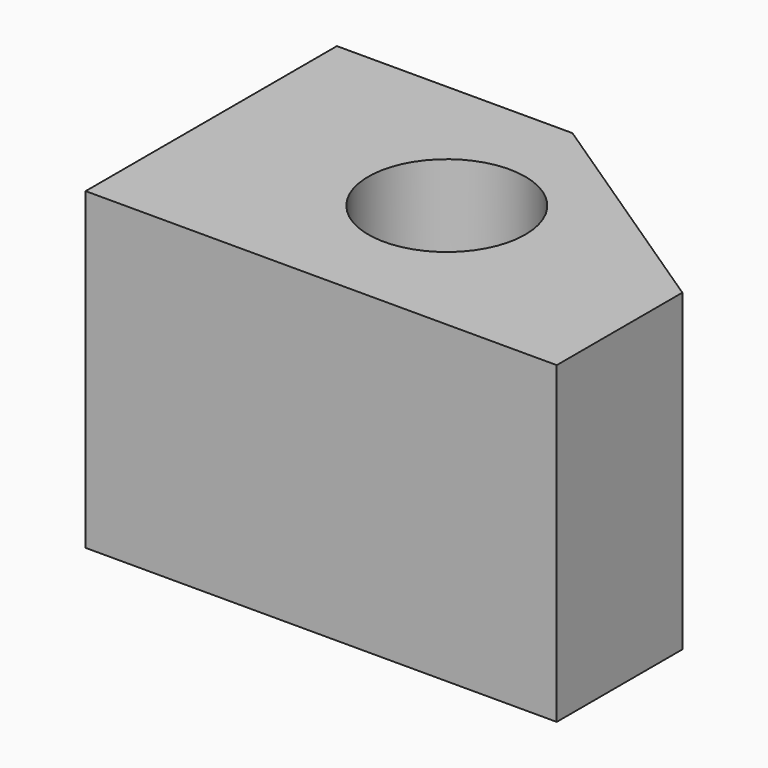
from build123d import *

# Parameters (mm, degrees)
F0_R     = 12.7
F1_DEPTH = 50.8


with BuildPart() as f1:
    # F0 (on Top) → F1 (new body)
    with BuildSketch(Plane.XY):
        Polygon((-76.2, 0), (0, 0), (0, 25.4), (-38.1, 50.8), (-76.2, 50.8), align=None)
        with Locations((-38.1, 25.4)):
            Circle(F0_R, mode=Mode.SUBTRACT)
    extrude(amount=F1_DEPTH)


solid = f1.part
